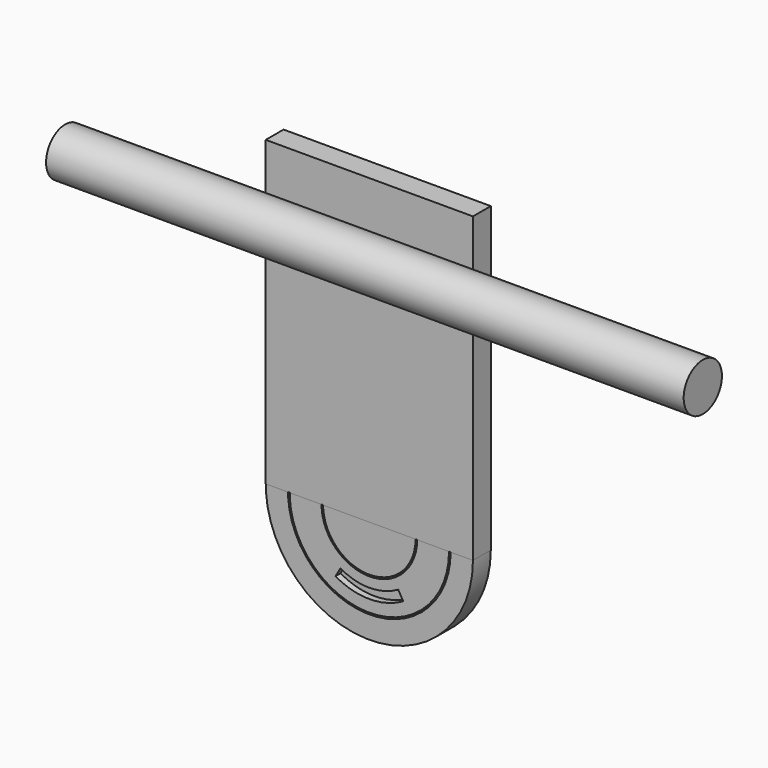
from build123d import *

# Parameters (mm, degrees)
CYLINDER_R                  = 15
CYLINDER_DEPTH              = 400
CYLINDER003_W               = 36.25
CYLINDER003_H               = 4.5
CYLINDER003_ANGLE           = 60
CYLINDER003_ROLL_ANGLE      = -90
CYLINDER003_PITCH_ANGLE     = 60
CYLINDER003_PLACEMENT_ANGLE = -180
CYLINDER004_W               = 42.5
CYLINDER004_H               = 4.5
CYLINDER004_ANGLE           = 60
CYLINDER004_ROLL_ANGLE      = -90
CYLINDER004_PITCH_ANGLE     = 60
CYLINDER004_PLACEMENT_ANGLE = -180
CYLINDER006_W               = 36.25
CYLINDER006_H               = 4.5
CYLINDER006_ANGLE           = 60
CYLINDER006_ROLL_ANGLE      = 90
CYLINDER006_PITCH_ANGLE     = -60
CYLINDER005_W               = 42.5
CYLINDER005_H               = 4.5
CYLINDER005_ANGLE           = 60
CYLINDER005_ROLL_ANGLE      = 90
CYLINDER005_PITCH_ANGLE     = -60
CYLINDER002_R               = 30
CYLINDER002_DEPTH           = 4.5
CYLINDER001_R               = 50
CYLINDER001_DEPTH           = 4
CYLINDER007_R               = 65
CYLINDER007_DEPTH           = 10
CYLINDER008_R               = 29
CYLINDER008_DEPTH           = 4
TUBE_R                      = 65
TUBE_R_2                    = 51
TUBE_DEPTH                  = 4
BOX_W                       = 130
BOX_H                       = 190
BOX_DEPTH                   = 14


with BuildPart() as hor:
    # Cylinder → Cylinder (new body)
    with BuildSketch(Plane(origin=(0, 0, 150), x_dir=(0, 0, 1), z_dir=(1, 0, 0))):
        Circle(CYLINDER_R)
    extrude(amount=CYLINDER_DEPTH)


with BuildPart() as cylinder003:
    # Cylinder003 → Cylinder003 (revolve)
    with BuildSketch(Plane.XZ):
        with Locations((18.125, 2.25)):
            Rectangle(CYLINDER003_W, CYLINDER003_H)
    revolve(axis=Axis((0, 0, 0), (0, 0, 1)), revolution_arc=CYLINDER003_ANGLE)


with BuildPart() as cylinder003_1:
    # Cylinder003 roll: moved
    add(cylinder003.part.rotate(Axis((0, 0, 0), (1, 0, 0)), CYLINDER003_ROLL_ANGLE))


with BuildPart() as cylinder003_2:
    # Cylinder003 pitch: moved
    add(cylinder003_1.part.rotate(Axis((0, 0, 0), (0, 1, 0)), CYLINDER003_PITCH_ANGLE))


with BuildPart() as cylinder003_3:
    # Cylinder003 placement: moved
    add(cylinder003_2.part.moved(Location((182, -19, 0))).rotate(Axis((182, -19, 0), (0, 0, 1)), CYLINDER003_PLACEMENT_ANGLE))


with BuildPart() as cut001:
    # Cylinder004 → Cylinder004 (revolve)
    with BuildSketch(Plane.XZ):
        with Locations((21.25, 2.25)):
            Rectangle(CYLINDER004_W, CYLINDER004_H)
    revolve(axis=Axis((0, 0, 0), (0, 0, 1)), revolution_arc=CYLINDER004_ANGLE)


with BuildPart() as cut001_1:
    # Cylinder004 roll: moved
    add(cut001.part.rotate(Axis((0, 0, 0), (1, 0, 0)), CYLINDER004_ROLL_ANGLE))


with BuildPart() as cut001_2:
    # Cylinder004 pitch: moved
    add(cut001_1.part.rotate(Axis((0, 0, 0), (0, 1, 0)), CYLINDER004_PITCH_ANGLE))


with BuildPart() as cut001_3:
    # Cylinder004 placement: moved
    add(cut001_2.part.moved(Location((182, -19, 0))).rotate(Axis((182, -19, 0), (0, 0, 1)), CYLINDER004_PLACEMENT_ANGLE))

    # Cut001: cut Cylinder003
    add(cylinder003_3.part, mode=Mode.SUBTRACT)


with BuildPart() as cylinder006:
    # Cylinder006 → Cylinder006 (revolve)
    with BuildSketch(Plane.XZ):
        with Locations((18.125, 2.25)):
            Rectangle(CYLINDER006_W, CYLINDER006_H)
    revolve(axis=Axis((0, 0, 0), (0, 0, 1)), revolution_arc=CYLINDER006_ANGLE)


with BuildPart() as cylinder006_1:
    # Cylinder006 roll: moved
    add(cylinder006.part.rotate(Axis((0, 0, 0), (1, 0, 0)), CYLINDER006_ROLL_ANGLE))


with BuildPart() as cylinder006_2:
    # Cylinder006 pitch: moved
    add(cylinder006_1.part.rotate(Axis((0, 0, 0), (0, 1, 0)), CYLINDER006_PITCH_ANGLE))


with BuildPart() as cylinder006_3:
    # Cylinder006 placement: moved
    add(cylinder006_2.part.moved(Location((182, -19, 0))))


with BuildPart() as fusion:
    # Cylinder005 → Cylinder005 (revolve)
    with BuildSketch(Plane.XZ):
        with Locations((21.25, 2.25)):
            Rectangle(CYLINDER005_W, CYLINDER005_H)
    revolve(axis=Axis((0, 0, 0), (0, 0, 1)), revolution_arc=CYLINDER005_ANGLE)


with BuildPart() as fusion_1:
    # Cylinder005 roll: moved
    add(fusion.part.rotate(Axis((0, 0, 0), (1, 0, 0)), CYLINDER005_ROLL_ANGLE))


with BuildPart() as fusion_2:
    # Cylinder005 pitch: moved
    add(fusion_1.part.rotate(Axis((0, 0, 0), (0, 1, 0)), CYLINDER005_PITCH_ANGLE))


with BuildPart() as fusion_3:
    # Cylinder005 placement: moved
    add(fusion_2.part.moved(Location((182, -19, 0))))

    # Cut002: cut Cylinder006
    add(cylinder006_3.part, mode=Mode.SUBTRACT)

    # Fusion: union Cut001
    add(cut001_3.part)


with BuildPart() as cylinder002:
    # Cylinder002 → Cylinder002 (new body)
    with BuildSketch(Plane(origin=(182, -19, 0), x_dir=(1, 0, 0), z_dir=(0, -1, 0))):
        Circle(CYLINDER002_R)
    extrude(amount=CYLINDER002_DEPTH)


with BuildPart() as cameraplate001:
    # Cylinder001 → Cylinder001 (new body)
    with BuildSketch(Plane(origin=(182, -19, 0), x_dir=(1, 0, 0), z_dir=(0, -1, 0))):
        Circle(CYLINDER001_R)
    extrude(amount=CYLINDER001_DEPTH)

    # Cut: cut Cylinder002
    add(cylinder002.part, mode=Mode.SUBTRACT)

    # Cut003: cut Fusion
    add(fusion_3.part, mode=Mode.SUBTRACT)


with BuildPart() as cameraplate001_1:
    # Cut003 placement: moved
    add(cameraplate001.part.moved(Location((0, 34, 0))))


with BuildPart() as cylinder007:
    # Cylinder007 → Cylinder007 (new body)
    with BuildSketch(Plane(origin=(182, 25, 0), x_dir=(1, 0, 0), z_dir=(0, -1, 0))):
        Circle(CYLINDER007_R)
    extrude(amount=CYLINDER007_DEPTH)


with BuildPart() as cylinder008:
    # Cylinder008 → Cylinder008 (new body)
    with BuildSketch(Plane(origin=(182, 15, 0), x_dir=(1, 0, 0), z_dir=(0, -1, 0))):
        Circle(CYLINDER008_R)
    extrude(amount=CYLINDER008_DEPTH)


with BuildPart() as camback:
    # Tube → Tube (new body)
    with BuildSketch(Plane(origin=(182, 15, 0), x_dir=(1, 0, 0), z_dir=(0, -1, 0))):
        Circle(TUBE_R)
        Circle(TUBE_R_2, mode=Mode.SUBTRACT)
    extrude(amount=TUBE_DEPTH)

    # Fusion001: union Cylinder007, Cylinder008
    add(cylinder007.part)
    add(cylinder008.part)


with BuildPart() as camaddons:
    # Box → Box (new body)
    with BuildSketch(Plane(origin=(117, 25, 0), x_dir=(1, 0, 0), z_dir=(0, -1, 0))):
        with Locations((65, 95)):
            Rectangle(BOX_W, BOX_H)
    extrude(amount=BOX_DEPTH)


solid = Compound([hor.part, cameraplate001_1.part, camback.part, camaddons.part])
